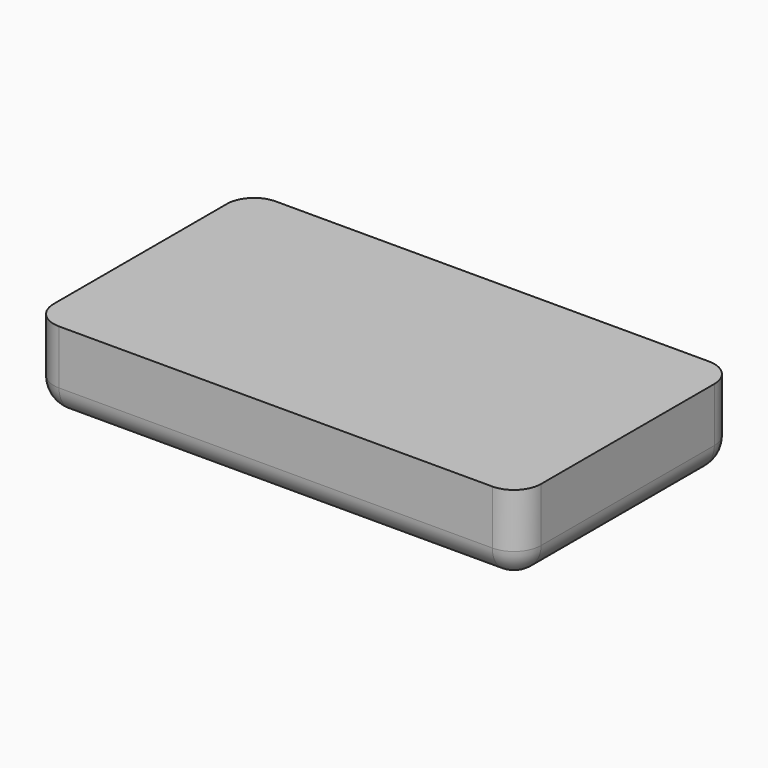
from build123d import *

# Parameters (mm, degrees)
F0_W     = 90
F0_H     = 50
F1_DEPTH = 10
F2_W     = 90
F2_H     = 50
F3_DEPTH = 2.5
F4_W     = 90
F4_H     = 50
F5_DEPTH = 2.5
F6_R     = 5
F7_R     = 5
F9_DEPTH = 12.5


with BuildPart() as f1:
    # F0 (on Top) → F1 (new body)
    with BuildSketch(Plane.XY):
        Rectangle(F0_W, F0_H)
        Polygon((-28.1291651246, -2.75), (-16.8708348754, -2.75), (-11.2416697508, -12.5), (-16.8708348754, -22.25), (-28.1291651246, -22.25), (-33.7583302492, -12.5), align=None, mode=Mode.SUBTRACT)
        Polygon((16.8708348754, -2.75), (28.1291651246, -2.75), (33.7583302492, -12.5), (28.1291651246, -22.25), (16.8708348754, -22.25), (11.2416697508, -12.5), align=None, mode=Mode.SUBTRACT)
        Polygon((-28.1291651246, 22.25), (-16.8708348754, 22.25), (-11.2416697508, 12.5), (-16.8708348754, 2.75), (-28.1291651246, 2.75), (-33.7583302492, 12.5), align=None, mode=Mode.SUBTRACT)
        Polygon((11.2416697508, 12.5), (16.8708348754, 22.25), (28.1291651246, 22.25), (33.7583302492, 12.5), (28.1291651246, 2.75), (16.8708348754, 2.75), align=None, mode=Mode.SUBTRACT)
    extrude(amount=F1_DEPTH)

    # F2 (on face) → F3 (join)
    with BuildSketch(Plane.XY.offset(10)):
        Rectangle(F2_W, F2_H)
    extrude(amount=F3_DEPTH)

    # F4 (on face) → F5 (join)
    with BuildSketch(Plane(origin=(0, 0, 0), x_dir=(1, 0, 0), z_dir=(0, 0, -1))):
        Rectangle(F4_W, F4_H)
    extrude(amount=F5_DEPTH)

    # F6
    f6_edges = [f1.edges().sort_by_distance(p)[0] for p in [
        (-45, 25, 5),
        (45, 25, 5),
        (45, -25, 5),
        (-45, -25, 5),
    ]]
    fillet(f6_edges, radius=F6_R)

    # F7
    f7_edges = [f1.edges().sort_by_distance(p)[0] for p in [
        (0, -25, -2.5),
        (43.535534, -23.535534, -2.5),
        (45, 0, -2.5),
        (43.535534, 23.535534, -2.5),
        (0, 25, -2.5),
        (-45, 0, -2.5),
        (-43.535534, 23.535534, -2.5),
        (-43.535534, -23.535534, -2.5),
    ]]
    fillet(f7_edges, radius=F7_R)

    # F8 (on face) → F9 (cut)
    with BuildSketch(Plane(origin=(0, 0, -2.5), x_dir=(1, 0, 0), z_dir=(0, 0, -1))):
        with BuildLine():
            Line((-33.25, 0), (-35, 0))
            Line((-35, 0), (-36.75, 0))
            ThreePointArc((-36.75, 0), (-35, -1.75), (-33.25, 0))
        make_face()
        with BuildLine():
            Line((-36.75, 0), (-35, 0))
            Line((-35, 0), (-33.25, 0))
            ThreePointArc((-33.25, 0), (-35, 1.75), (-36.75, 0))
        make_face()
        with BuildLine():
            Line((35, 0), (33.25, 0))
            ThreePointArc((33.25, 0), (35, -1.75), (36.75, 0))
            Line((36.75, 0), (35, 0))
        make_face()
        with BuildLine():
            ThreePointArc((36.75, 0), (35, 1.75), (33.25, 0))
            Line((33.25, 0), (35, 0))
            Line((35, 0), (36.75, 0))
        make_face()
    extrude(amount=-F9_DEPTH, mode=Mode.SUBTRACT)


solid = f1.part
